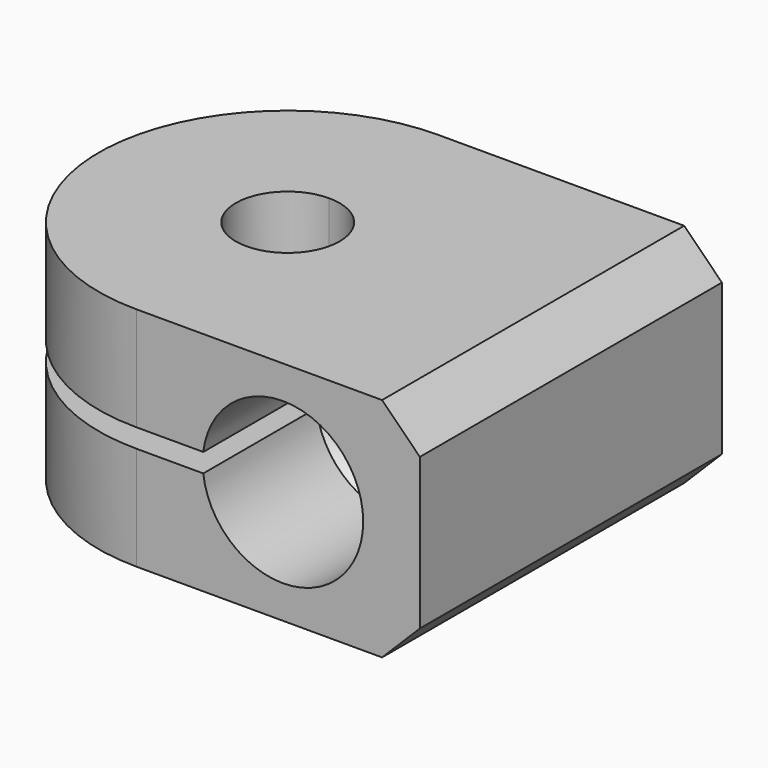
from build123d import *

# Parameters (mm, degrees)
F1_DEPTH = 12
F3_DEPTH = 20.001
F4_SIZE  = 2
F2_W     = 10
F2_H     = 1
F9_DEPTH = 25


with BuildPart() as f1:
    # F0 (on Top) → F1 (new body)
    with BuildSketch(Plane.XY):
        with BuildLine():
            Line((15, 10), (0, 10))
            Line((0, 10), (0, 2.75))
            ThreePointArc((0, 2.75), (1.9445436483, 1.9445436483), (2.75, 0))
            ThreePointArc((2.75, 0), (1.9445436483, -1.9445436483), (0, -2.75))
            Line((0, -2.75), (0, -10))
            Line((0, -10), (15, -10))
            Line((15, -10), (15, 10))
        make_face()
        with BuildLine():
            Line((0, 2.75), (0, 10))
            ThreePointArc((0, 10), (-10, 0), (0, -10))
            Line((0, -10), (0, -2.75))
            ThreePointArc((0, -2.75), (-2.75, 0), (0, 2.75))
        make_face()
    extrude(amount=F1_DEPTH)

    # F2 (on face) → F3 (cut, through all)
    with BuildSketch(Plane.XZ.offset(10)):
        with BuildLine():
            Line((7.75, 6.5), (7.75, 5.5))
            Line((7.75, 5.5), (3.529514246, 5.5))
            ThreePointArc((3.529514246, 5.5), (8.0004351666, 1.7573849777), (12, 6))
            ThreePointArc((12, 6), (8.0004351666, 10.2426150223), (3.529514246, 6.5))
            Line((3.529514246, 6.5), (7.75, 6.5))
        make_face()
        with BuildLine():
            Line((3.529514246, 5.5), (7.75, 5.5))
            Line((7.75, 5.5), (7.75, 6.5))
            Line((7.75, 6.5), (3.529514246, 6.5))
            ThreePointArc((3.529514246, 6.5), (3.5, 6), (3.529514246, 5.5))
        make_face()
    extrude(amount=-F3_DEPTH, mode=Mode.SUBTRACT)

    # F4
    f4_edges = [f1.edges().sort_by_distance(p)[0] for p in [
        (15, 0, 0),
        (15, 0, 12),
    ]]
    chamfer(f4_edges, length=F4_SIZE)

    # F8: sweep along a path in F7
    with BuildLine(Plane.XZ) as f8_path:
        CenterArc((7.75, 6), 4.25, 0, 360)
    # F6 (on mid) → F8 (sweep)
    with BuildSketch(Plane.XY.offset(6)):
        with BuildLine():
            Line((3.5, 2.5), (3.5, -2.5))
            ThreePointArc((3.5, -2.5), (4.5, 0), (3.5, 2.5))
        make_face()
    sweep(path=f8_path.line)

    # F2 (on face) → F9 (cut)
    with BuildSketch(Plane.XZ.offset(10)):
        with BuildLine():
            Line((3.529514246, 5.5), (7.75, 5.5))
            Line((7.75, 5.5), (7.75, 6.5))
            Line((7.75, 6.5), (3.529514246, 6.5))
            ThreePointArc((3.529514246, 6.5), (3.5, 6), (3.529514246, 5.5))
        make_face()
        with BuildLine():
            Line((0, 5.5), (3.529514246, 5.5))
            ThreePointArc((3.529514246, 5.5), (3.5, 6), (3.529514246, 6.5))
            Line((3.529514246, 6.5), (0, 6.5))
            Line((0, 6.5), (0, 5.5))
        make_face()
        with Locations((-5, 6)):
            Rectangle(F2_W, F2_H)
    extrude(amount=-F9_DEPTH, mode=Mode.SUBTRACT)


solid = f1.part
